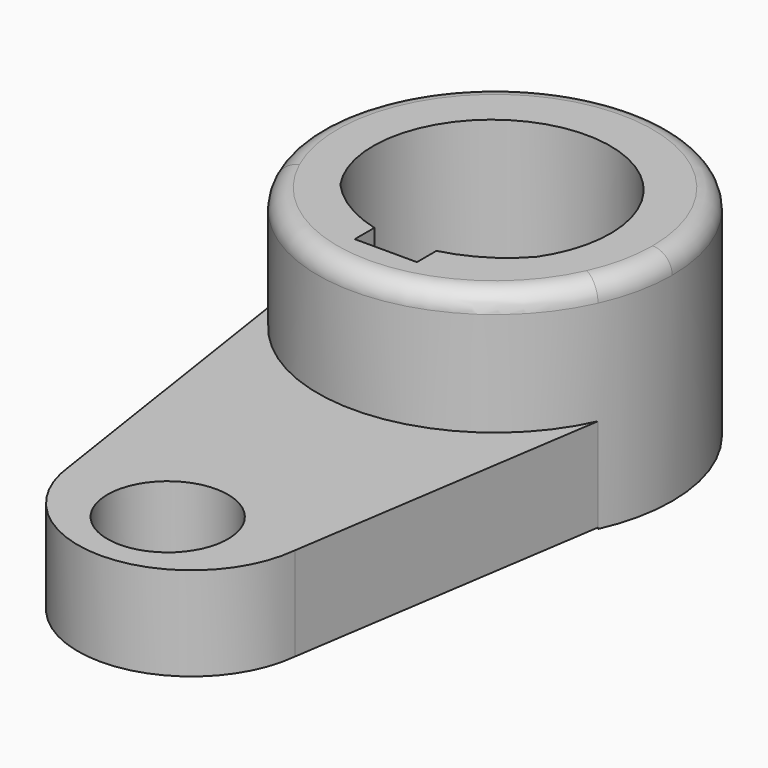
from build123d import *

# Parameters (mm, degrees)
F1_DEPTH = 15.7734
F3_D     = 20.32
F5_DEPTH = 20.828
F6_DEPTH = 16.002
F8_R     = 3.302
F9_DEPTH = 39.37


with BuildPart() as f1:
    # F0 (on Top) → F1 (new body)
    with BuildSketch(Plane.XY):
        with BuildLine():
            Line((27.2614864262, -32.5740104774), (-27.2614864262, -32.5740104774))
            Line((-27.2614864262, -32.5740104774), (-19.05, -86.5490104774))
            ThreePointArc((-19.05, -86.5490104774), (0, -103.6707926836), (19.05, -86.5490104774))
            Line((19.05, -86.5490104774), (27.2614864262, -32.5740104774))
        make_face()
    extrude(amount=F1_DEPTH)

    # F3 (through all)
    with Locations(Plane.XY.offset(15.7734)):
        with Locations((0, -89.5141884685)):
            Hole(F3_D / 2)

    # F4 (on face) → F5 (join)
    with BuildSketch(Plane.XY.offset(15.7734)):
        with BuildLine():
            ThreePointArc((27.2197921324, -32.8480716384), (29.2060026188, -26.8297481215), (29.8781534287, -20.5278862268))
            ThreePointArc((29.8781534287, -20.5278862268), (-6.3018618947, 8.678116392), (-27.2197921324, -32.8480716384))
            Line((-27.2197921324, -32.8480716384), (-27.2614864262, -32.5740104774))
            Line((-27.2614864262, -32.5740104774), (-16.4541315907, -32.5740104774))
            ThreePointArc((-16.4541315907, -32.5740104774), (0.0596223919, -1.2802406646), (16.5733763745, -32.5740104774))
            Line((16.5733763745, -32.5740104774), (27.2614864262, -32.5740104774))
            Line((27.2614864262, -32.5740104774), (27.2197921324, -32.8480716384))
        make_face()
        with BuildLine():
            Line((-27.2614864262, -32.5740104774), (-27.2197921324, -32.8480716384))
            ThreePointArc((-27.2197921324, -32.8480716384), (0, -50.4060396555), (27.2197921324, -32.8480716384))
            Line((27.2197921324, -32.8480716384), (27.2614864262, -32.5740104774))
            Line((27.2614864262, -32.5740104774), (16.5733763745, -32.5740104774))
            Line((16.5733763745, -32.5740104774), (-16.4541315907, -32.5740104774))
            Line((-16.4541315907, -32.5740104774), (-27.2614864262, -32.5740104774))
        make_face()
    extrude(amount=F5_DEPTH)

    # F6 (add): a face of the model
    f6_faces = [f1.faces().sort_by_distance(p)[0] for p in [
        (-21.8578090084, -31.8424699105, 15.7734),
    ]]
    extrude(f6_faces, amount=F6_DEPTH)

    # F8
    f8_edges = [f1.edges().sort_by_distance(p)[0] for p in [
        (-29.878153, -20.527886, 36.6014),
    ]]
    fillet(f8_edges, radius=F8_R)

    # F7 (on face) → F9 (cut)
    with BuildSketch(Plane(origin=(0, 0, 0), x_dir=(1, 0, 0), z_dir=(0, 0, -1))):
        with BuildLine():
            Line((-5.2386547938, 43.5478799045), (-5.2386547938, 39.4042106377))
            ThreePointArc((-5.2386547938, 39.4042106377), (-11.348132673, 36.8129879511), (-16.4541315907, 32.5740104774))
            Line((-16.4541315907, 32.5740104774), (16.5733763745, 32.5740104774))
            ThreePointArc((16.5733763745, 32.5740104774), (11.4254150287, 36.8533502525), (5.2473828261, 39.43136752))
            Line((5.2473828261, 39.43136752), (5.2473828261, 43.5478799045))
            Line((5.2473828261, 43.5478799045), (-5.2386547938, 43.5478799045))
        make_face()
    extrude(amount=-F9_DEPTH, mode=Mode.SUBTRACT)


solid = f1.part
